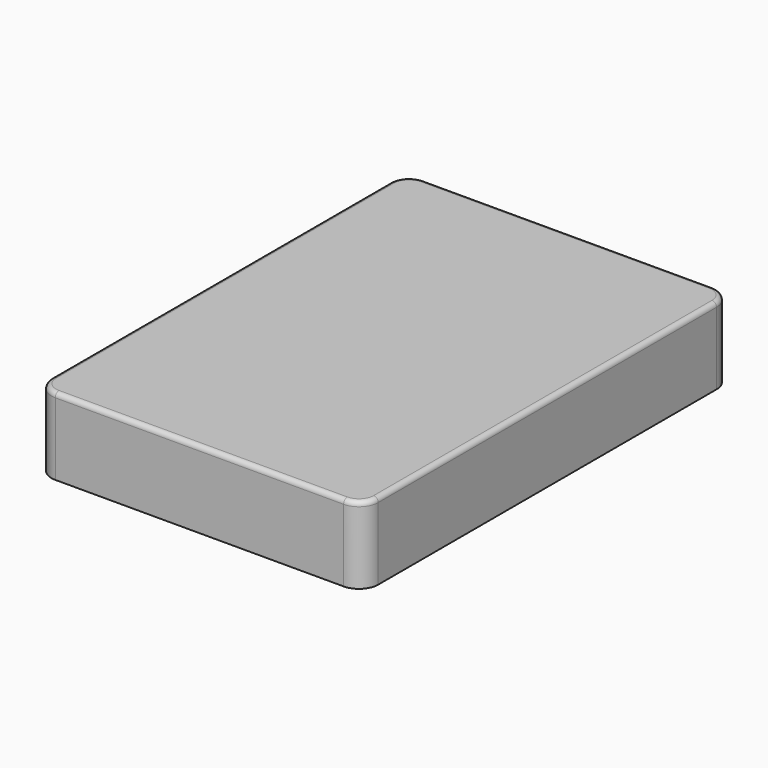
from build123d import *

# Parameters (mm, degrees)
F1_DEPTH = 25.4
F2_R     = 1.524
F3_T     = -2.54


with BuildPart() as f1:
    # F0 (on Top) → F1 (new body)
    with BuildSketch(Plane.XY):
        with BuildLine():
            Line((47.625, 76.2), (-47.625, 76.2))
            ThreePointArc((-47.625, 76.2), (-52.115128, 74.340128), (-53.975, 69.85))
            Line((-53.975, 69.85), (-53.975, -69.85))
            ThreePointArc((-53.975, -69.85), (-52.115128, -74.340128), (-47.625, -76.2))
            Line((-47.625, -76.2), (47.625, -76.2))
            ThreePointArc((47.625, -76.2), (52.115128, -74.340128), (53.975, -69.85))
            Line((53.975, -69.85), (53.975, 69.85))
            ThreePointArc((53.975, 69.85), (52.115128, 74.340128), (47.625, 76.2))
        make_face()
    extrude(amount=F1_DEPTH)

    # F2
    f2_edges = [f1.edges().sort_by_distance(p)[0] for p in [
        (0, 76.2, 25.4),
    ]]
    fillet(f2_edges, radius=F2_R)

    # F3
    f3_openings = [f1.faces().sort_by_distance(p)[0] for p in [
        (0, 0, 0),
    ]]
    offset(amount=F3_T, openings=f3_openings)


solid = f1.part
